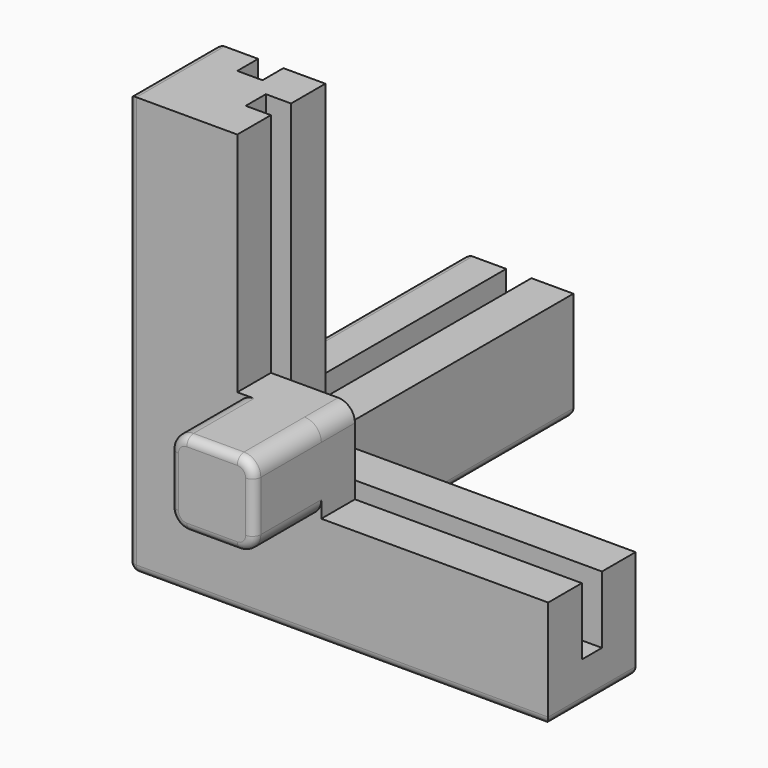
from build123d import *

# Parameters (mm, degrees)
PAD_DEPTH     = 13
SKETCH001_W   = 13
SKETCH001_H   = 13.105825
PAD001_DEPTH  = 50
SKETCH002_W   = 70.608528
SKETCH002_H   = 3
SKETCH002_W_2 = 3
SKETCH002_H_2 = 60
POCKET_DEPTH  = 45
PAD003_DEPTH  = 5
PAD004_DEPTH  = 10
FILLET002_R   = 1
FILLET_R      = 1


with BuildPart() as part:
    # Sketch → Pad (new body)
    with BuildSketch(Plane.XY):
        Polygon((0, 0), (50, 0), (50, 13), (13, 13), (13, 50), (0, 50), align=None)
    extrude(amount=PAD_DEPTH)

    # Sketch001 → Pad001 (join)
    with BuildSketch(Plane.XY):
        with Locations((6.5, 6.5529125)):
            Rectangle(SKETCH001_W, SKETCH001_H)
    extrude(amount=PAD001_DEPTH)

    # Sketch002 (on Face7 of Pad001) → Pocket (cut)
    with BuildSketch(Plane.XY.offset(50)):
        with Locations((45.304264, 6.5)):
            Rectangle(SKETCH002_W, SKETCH002_H)
        with Locations((6.5, 40)):
            Rectangle(SKETCH002_W_2, SKETCH002_H_2)
    extrude(amount=-POCKET_DEPTH, mode=Mode.SUBTRACT)

    # Sketch004 → Pad003 (join)
    with BuildSketch(Plane.XZ):
        with BuildLine():
            Line((8, 8), (23, 8))
            Line((23, 8), (23, 21))
            ThreePointArc((23, 21), (22.4142135624, 22.4142135624), (21, 23))
            Line((21, 23), (8, 23))
            Line((8, 23), (8, 8))
        make_face()
    extrude(amount=-PAD003_DEPTH)

    # Sketch005 → Pad004 (join)
    with BuildSketch(Plane.XZ):
        with BuildLine():
            Line((21, 23), (15, 23))
            ThreePointArc((15, 23), (13.5857864376, 22.4142135623), (13, 20.9999999999))
            Line((13, 20.9999999999), (13, 15))
            ThreePointArc((13, 15), (13.5857864376, 13.5857864376), (15, 13))
            Line((15, 13), (21, 13))
            ThreePointArc((21, 13), (22.4142135624, 13.5857864376), (23, 15))
            Line((23, 15), (23, 20.9999999999))
            ThreePointArc((23, 20.9999999999), (22.4142135624, 22.4142135623), (21, 23))
        make_face()
    extrude(amount=PAD004_DEPTH)

    # Fillet002
    fillet002_edges = [part.edges().sort_by_distance(p)[0] for p in [
        (18, -10, 23),
        (13.585786, -10, 22.414214),
        (13, -10, 18),
        (13.585786, -10, 13.585786),
        (18, -10, 13),
        (22.414214, -10, 13.585786),
        (23, -10, 18),
        (22.414214, -10, 22.414214),
    ]]
    fillet(fillet002_edges, radius=FILLET002_R)

    # Fillet
    fillet_edges = [part.edges().sort_by_distance(p)[0] for p in [
        (0, 25, 0),
        (6.5, 50, 0),
        (13, 31.5, 0),
        (31.5, 13, 0),
        (50, 6.5, 0),
        (25, 0, 0),
        (0, 0, 25),
        (0, 6.552912, 50),
        (0, 13.105825, 31.5),
        (0, 31.552912, 13),
        (0, 50, 6.5),
    ]]
    fillet(fillet_edges, radius=FILLET_R)


solid = part.part
